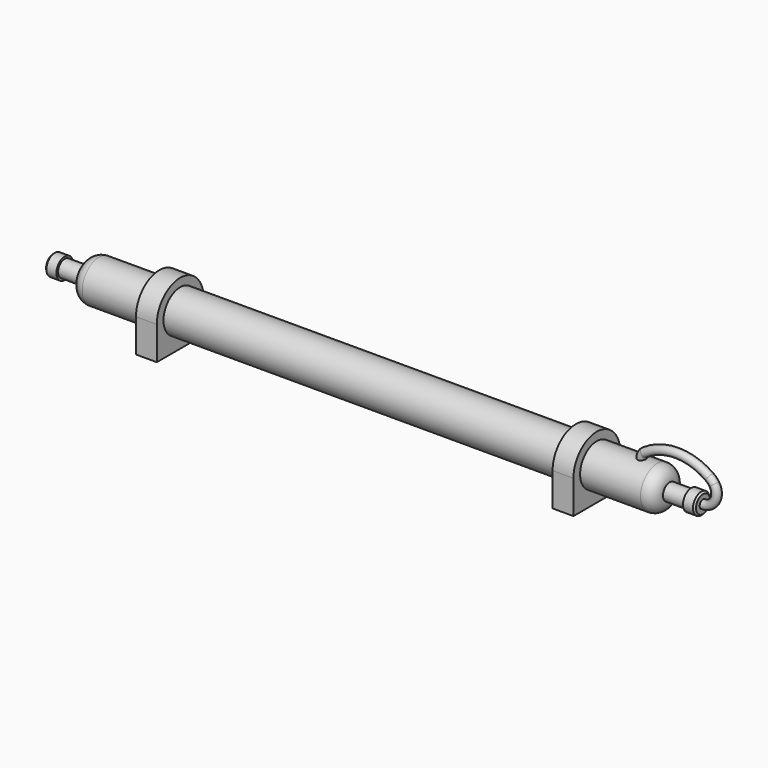
from build123d import *

# Parameters (mm, degrees)
F0_R      = 25
F1_DEPTH  = 350
F2_R      = 15
F3_DEPTH  = 26
F4_R      = 12.5
F5_DEPTH  = 14
F8_R      = 5
F10_SIZE  = 2
F12_R     = 25
F13_DEPTH = 12.5


with BuildPart() as f1:
    # F0 (on Right) → F1 (new body, symmetric)
    with BuildSketch(Plane.YZ):
        Circle(F0_R)
    extrude(amount=F1_DEPTH, both=True)

    # F2
    f2_edges = [f1.edges().sort_by_distance(p)[0] for p in [
        (-350, -25, 0),
        (350, -25, 0),
    ]]
    fillet(f2_edges, radius=F2_R)


with BuildPart() as f3:
    # F3 (new): a face of the model
    f3_faces = [f1.part.faces().sort_by_distance(p)[0] for p in [
        (-350, 0, 0),
    ]]
    extrude(f3_faces, amount=F3_DEPTH)

    # F4 (on face) → F5 (join)
    with BuildSketch(Plane(origin=(-376, 0, 0), x_dir=(0, -1, 0), z_dir=(-1, 0, 0))):
        Circle(F4_R)
    extrude(amount=F5_DEPTH)


with BuildPart() as f1_1:
    add(f1.part)

    # F6: F3 across plane
    add(f3.part.mirror(Plane.YZ))

    add(f3.part)  # F9 merges F3
    # F9: sweep along a path in F7
    with BuildLine(Plane.XZ) as f9_path:
        ThreePointArc((390, 0), (404.4586143035, 8.7653716807), (403.3740943516, 25.6386370656))
        ThreePointArc((403.3740943516, 25.6386370656), (400.8614530359, 28.6570791704), (397.8742399187, 31.2067687426))
        ThreePointArc((397.8742399187, 31.2067687426), (358.9804533336, 43.8624050182), (319.8975799307, 31.8033515292))
        ThreePointArc((319.8975799307, 31.8033515292), (317.2801425407, 28.8396439573), (316.3358569145, 25))
        Line((316.3358569145, 25), (316.3358569145, 15.1982838288))
    # F8 (on face) → F9 (sweep)
    with BuildSketch(Plane.YZ.offset(390)):
        Circle(F8_R)
    sweep(path=f9_path.line)

    # F10
    f10_edges = [f1_1.edges().sort_by_distance(p)[0] for p in [
        (-390, 12.5, 0),
        (390, 12.5, 0),
    ]]
    chamfer(f10_edges, length=F10_SIZE)


with BuildPart() as f13:
    # F12 (on offset) → F13 (new body, symmetric)
    with BuildSketch(Plane.YZ.offset(250)):
        with BuildLine():
            Line((-35, 0), (-35, -40))
            Line((-35, -40), (35, -40))
            Line((35, -40), (35, 0))
            ThreePointArc((35, 0), (0, 35), (-35, 0))
        make_face()
        Circle(F12_R, mode=Mode.SUBTRACT)
    extrude(amount=F13_DEPTH, both=True)


with BuildPart() as f14_1:
    # F14: instance of F13
    add(f13.part.mirror(Plane.YZ))


solid = Compound([f1_1.part, f13.part, f14_1.part])
